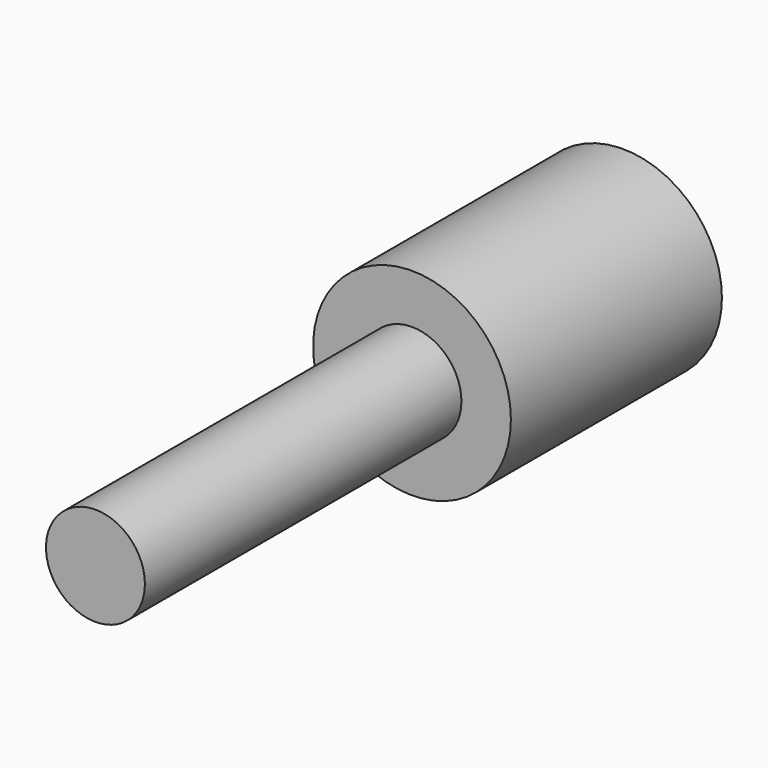
from build123d import *

# Parameters (mm, degrees)
F0_R     = 38.1
F0_R_2   = 19.05
F1_DEPTH = 50.8
F2_DEPTH = 203.2


with BuildPart() as f1:
    # F0 (on Front) → F1 (new body, symmetric)
    with BuildSketch(Plane.XZ):
        Circle(F0_R)
        Circle(F0_R_2, mode=Mode.SUBTRACT)
    extrude(amount=F1_DEPTH, both=True)


with BuildPart() as f2:
    # F0 (on Front) → F2 (new body)
    with BuildSketch(Plane.XZ):
        Circle(F0_R_2)
    extrude(amount=F2_DEPTH)


solid = Compound([f1.part, f2.part])
